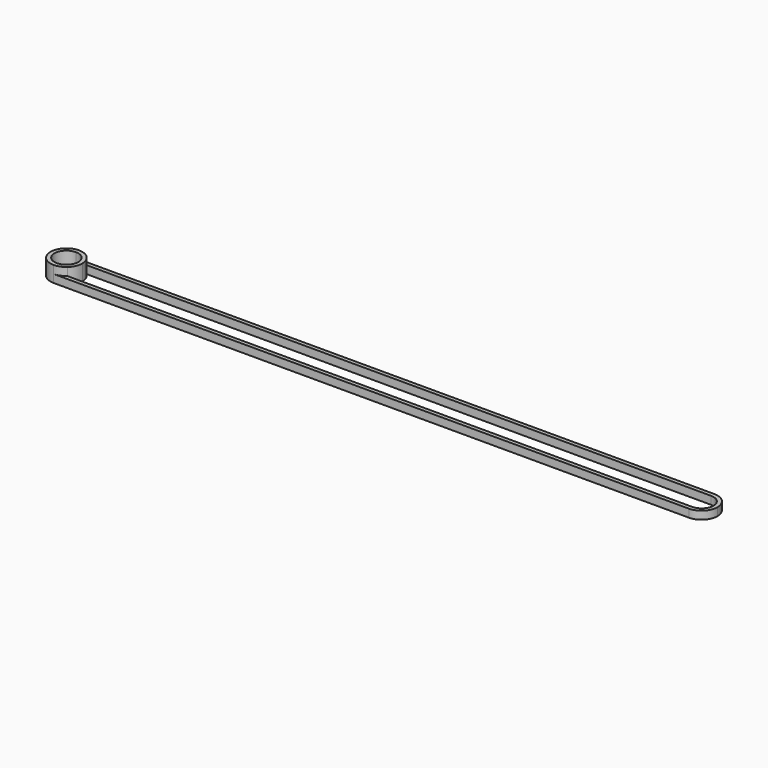
from build123d import *

# Parameters (mm, degrees)
F1_DEPTH = 2.54
F2_DEPTH = 1.27


with BuildPart() as f1:
    # F0 (on Top) → F1 (new body)
    with BuildSketch(Plane.XY):
        with BuildLine():
            Line((-49.1199479175, -0.635), (-50.8, -0.635))
            ThreePointArc((-50.8, -0.635), (-49.4529615818, -1.1929615818), (-48.895, -2.54))
            ThreePointArc((-48.895, -2.54), (-49.4529615818, -3.8870384182), (-50.8, -4.445))
            Line((-50.8, -4.445), (-49.1199479175, -4.445))
            ThreePointArc((-49.1199479175, -4.445), (-48.4849479175, -3.5850520825), (-48.26, -2.54))
            ThreePointArc((-48.26, -2.54), (-48.4849479175, -1.4949479175), (-49.1199479175, -0.635))
        make_face()
        with BuildLine():
            ThreePointArc((-49.1199479175, -0.635), (-49.9019743879, -0.1640475594), (-50.8, 0))
            Line((-50.8, 0), (-50.8, -0.635))
            Line((-50.8, -0.635), (-49.1199479175, -0.635))
        make_face()
        with BuildLine():
            Line((-50.8, -0.635), (-50.8, 0))
            ThreePointArc((-50.8, 0), (-53.34, -2.54), (-50.8, -5.08))
            Line((-50.8, -5.08), (-50.8, -4.445))
            ThreePointArc((-50.8, -4.445), (-52.705, -2.54), (-50.8, -0.635))
        make_face()
        with BuildLine():
            Line((-50.8, -4.445), (-50.8, -5.08))
            ThreePointArc((-50.8, -5.08), (-49.9019743879, -4.9159524406), (-49.1199479175, -4.445))
            Line((-49.1199479175, -4.445), (-50.8, -4.445))
        make_face()
    extrude(amount=F1_DEPTH)

    # F0 (on Top) → F2 (join)
    with BuildSketch(Plane.XY):
        with BuildLine():
            Line((0, 0), (-50.8, 0))
            ThreePointArc((-50.8, 0), (-49.9019743879, -0.1640475594), (-49.1199479175, -0.635))
            Line((-49.1199479175, -0.635), (0, -0.635))
            Line((0, -0.635), (0, 0))
        make_face()
        with BuildLine():
            ThreePointArc((-49.1199479175, -4.445), (-49.9019743879, -4.9159524406), (-50.8, -5.08))
            Line((-50.8, -5.08), (0, -5.08))
            Line((0, -5.08), (0, -4.445))
            Line((0, -4.445), (-49.1199479175, -4.445))
        make_face()
        with BuildLine():
            ThreePointArc((53.34, -2.54), (52.5960512242, -0.7439487758), (50.8, 0))
            Line((50.8, 0), (50.8, -0.635))
            ThreePointArc((50.8, -0.635), (52.1470384182, -1.1929615818), (52.705, -2.54))
            ThreePointArc((52.705, -2.54), (52.1470384182, -3.8870384182), (50.8, -4.445))
            Line((50.8, -4.445), (50.8, -5.08))
            ThreePointArc((50.8, -5.08), (52.5960512242, -4.3360512242), (53.34, -2.54))
        make_face()
        with BuildLine():
            Line((50.8, 0), (0, 0))
            Line((0, 0), (0, -0.635))
            Line((0, -0.635), (49.1199479175, -0.635))
            ThreePointArc((49.1199479175, -0.635), (49.9019743879, -0.1640475594), (50.8, 0))
        make_face()
        with BuildLine():
            Line((50.8, -0.635), (50.8, 0))
            ThreePointArc((50.8, 0), (49.9019743879, -0.1640475594), (49.1199479175, -0.635))
            Line((49.1199479175, -0.635), (50.8, -0.635))
        make_face()
        with BuildLine():
            ThreePointArc((49.1199479175, -4.445), (49.9019743879, -4.9159524406), (50.8, -5.08))
            Line((50.8, -5.08), (50.8, -4.445))
            Line((50.8, -4.445), (49.1199479175, -4.445))
        make_face()
        with BuildLine():
            Line((0, -4.445), (0, -5.08))
            Line((0, -5.08), (50.8, -5.08))
            ThreePointArc((50.8, -5.08), (49.9019743879, -4.9159524406), (49.1199479175, -4.445))
            Line((49.1199479175, -4.445), (0, -4.445))
        make_face()
    extrude(amount=F2_DEPTH)


solid = f1.part
